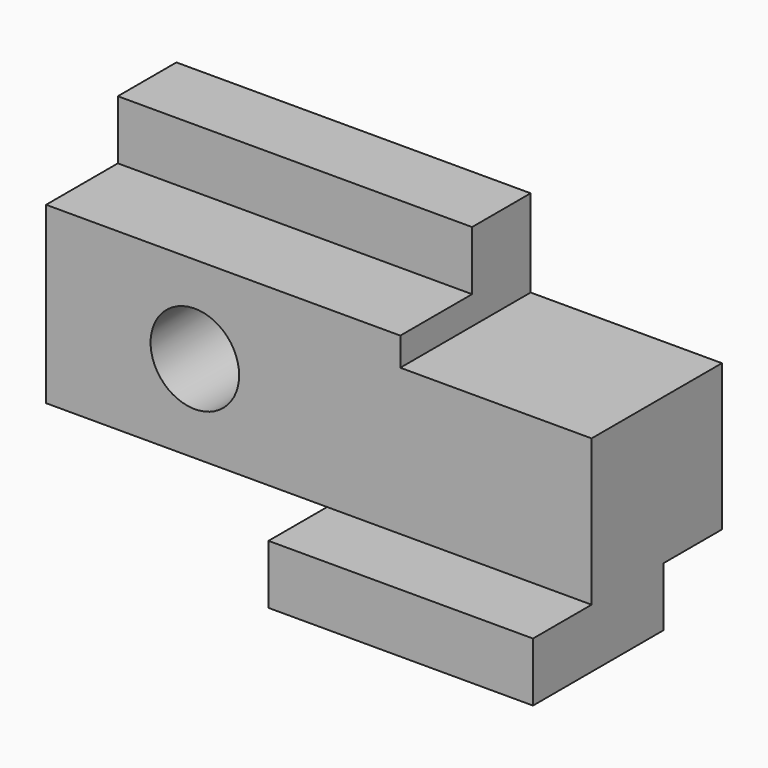
from build123d import *

# Parameters (mm, degrees)
F0_W      = 117.348
F0_H      = 62.992
F1_DEPTH  = 50.8
F2_W      = 41.148
F2_H      = 18.796
F3_DEPTH  = 50.801
F4_W      = 60.452
F4_H      = 12.7
F5_DEPTH  = 50.801
F6_W      = 35.052
F6_H      = 12.7124151424
F7_DEPTH  = 76.201
F8_W      = 15.7580270052
F8_H      = 31.496
F9_DEPTH  = 117.349
F10_W     = 15.7580270052
F10_H     = 6.0835848576
F11_DEPTH = 76.201
F12_W     = 15.748
F12_H     = 12.7
F13_DEPTH = 117.349
F14_R     = 9.525
F15_DEPTH = 35.0429729948


with BuildPart() as f1:
    # F0 (on Front) → F1 (new body)
    with BuildSketch(Plane.XZ):
        Rectangle(F0_W, F0_H)
    extrude(amount=F1_DEPTH)

    # F2 (on face) → F3 (cut, through all)
    with BuildSketch(Plane.XZ.offset(50.8)):
        with Locations((38.1, 22.098)):
            Rectangle(F2_W, F2_H)
    extrude(amount=-F3_DEPTH, mode=Mode.SUBTRACT)

    # F4 (on face) → F5 (cut, through all)
    with BuildSketch(Plane.XZ.offset(50.8)):
        with Locations((-28.448, -25.146)):
            Rectangle(F4_W, F4_H)
    extrude(amount=-F5_DEPTH, mode=Mode.SUBTRACT)

    # F6 (on face) → F7 (cut, through all)
    with BuildSketch(Plane.YZ.offset(17.526)):
        with Locations((-33.274, 25.1397924288)):
            Rectangle(F6_W, F6_H)
    extrude(amount=-F7_DEPTH, mode=Mode.SUBTRACT)

    # F8 (on face) → F9 (cut, through all)
    with BuildSketch(Plane.YZ.offset(58.674)):
        with Locations((-42.9209864974, -3.048)):
            Rectangle(F8_W, F8_H)
    extrude(amount=-F9_DEPTH, mode=Mode.SUBTRACT)

    # F10 (on face) → F11 (cut, through all)
    with BuildSketch(Plane.YZ.offset(17.526)):
        with Locations((-42.9209864974, 15.7417924288)):
            Rectangle(F10_W, F10_H)
    extrude(amount=-F11_DEPTH, mode=Mode.SUBTRACT)

    # F12 (on face) → F13 (cut, through all)
    with BuildSketch(Plane.YZ.offset(58.674)):
        with Locations((-7.874, -25.146)):
            Rectangle(F12_W, F12_H)
    extrude(amount=-F13_DEPTH, mode=Mode.SUBTRACT)

    # F14 (on face) → F15 (cut, through all)
    with BuildSketch(Plane.XZ.offset(35.0419729948)):
        with Locations((-26.67, 0)):
            Circle(F14_R)
    extrude(amount=-F15_DEPTH, mode=Mode.SUBTRACT)


solid = f1.part
